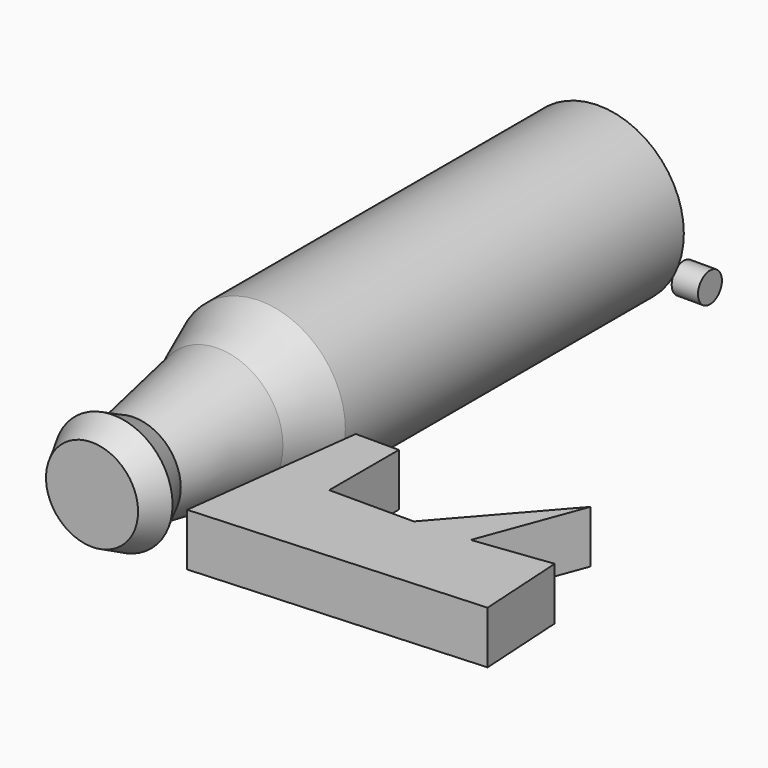
from build123d import *

# Parameters (mm, degrees)
F0_R       = 41.1246715707
F1_DEPTH   = 204.47
F4_R       = 31.304586073
F1_FACE_R  = 41.1246715707
F5_FACE_R  = 31.304586073
F6_R       = 22.562521852
F7_FACE_R  = 22.562521852
F10_R      = 28.7609261633
F12_FACE_R = 28.7609261633
F11_R      = 22.2458037408
F15_DEPTH  = 25.4
F16_R      = 7.2267187417
F17_DEPTH  = 12.7


with BuildPart() as f1:
    # F0 (on Front) → F1 (new body)
    with BuildSketch(Plane.XZ):
        Circle(F0_R)
    extrude(amount=F1_DEPTH)

    # F4 (on offset) → F5 section 0
    with BuildSketch(Plane.XZ.offset(229.87)):
        Circle(F4_R)
    # F1_face (on face) → F5 section 1
    with BuildSketch(Plane.XZ.offset(204.47)):
        Circle(F1_FACE_R)
    loft()

    # F5_face (on face) → F7 section 0
    with BuildSketch(Plane.XZ.offset(229.87)):
        Circle(F5_FACE_R)
    # F6 (on offset) → F7 section 1
    with BuildSketch(Plane.XZ.offset(280.67)):
        Circle(F6_R)
    loft()

    # F7_face (on face) → F12 section 0
    with BuildSketch(Plane.XZ.offset(280.67)):
        Circle(F7_FACE_R)
    # F10 (on offset) → F12 section 1
    with BuildSketch(Plane.XZ.offset(293.37)):
        Circle(F10_R)
    loft()

    # F12_face (on face) → F13 section 0
    with BuildSketch(Plane.XZ.offset(293.37)):
        Circle(F12_FACE_R)
    # F11 (on offset) → F13 section 1
    with BuildSketch(Plane.XZ.offset(306.07)):
        Circle(F11_R)
    loft()


with BuildPart() as f15:
    # F14 (on Top) → F15 (new body)
    with BuildSketch(Plane.XY):
        Polygon((202.1164744268, -279.2215311312), (165.1990115643, -283.8112711906), (183.5463047028, -234.4745099545), (138.9713287354, -285.3920757771), (98.0570316315, -285.3920757771), (98.0570316315, -243.2848960161), (77.2171244025, -243.2848960161), (66.2356987596, -331.3960134983), (204.7517895699, -323.0713903904), align=None)
    extrude(amount=F15_DEPTH)


with BuildPart() as f17:
    # F16 (on Right) → F17 (new body)
    with BuildSketch(Plane.YZ):
        with Locations((51.3137020171, -52.9861934483)):
            Circle(F16_R)
    extrude(amount=F17_DEPTH)


solid = Compound([f1.part, f15.part, f17.part])
